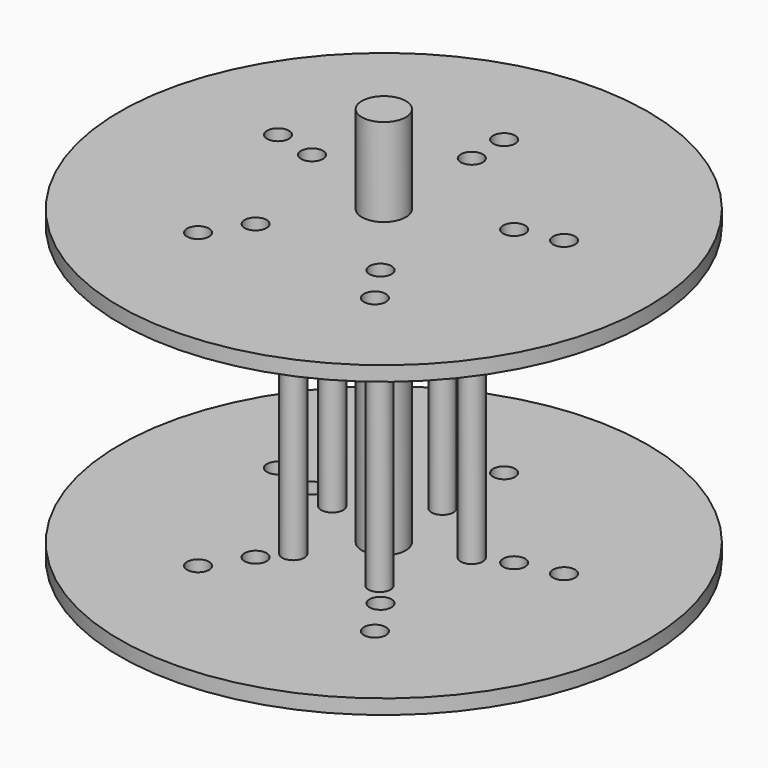
from build123d import *

# Parameters (mm, degrees)
F0_R      = 180
F1_DEPTH  = 10
F2_R      = 15
F2_R_2    = 7.5
F3_DEPTH  = 200
F5_R      = 180
F6_DEPTH  = 10
F7_R      = 15
F8_DEPTH  = 60
F10_R     = 15
F11_DEPTH = 60
F12_R     = 7.5
F13_DEPTH = 220


with BuildPart() as f1:
    # F0 (on Top) → F1 (new body)
    with BuildSketch(Plane.XY):
        Circle(F0_R)
    extrude(amount=F1_DEPTH)

    # F2 (on Top) → F3 (join)
    with BuildSketch(Plane.XY):
        Circle(F2_R)
        with Locations((0, 50)):
            Circle(F2_R_2)
        with Locations((-47.552826, 15.45085)):
            Circle(F2_R_2)
        with Locations((-29.389263, -40.45085)):
            Circle(F2_R_2)
        with Locations((29.389263, -40.45085)):
            Circle(F2_R_2)
        with Locations((47.552826, 15.45085)):
            Circle(F2_R_2)
    extrude(amount=F3_DEPTH)

    # F5 (on offset) → F6 (join)
    with BuildSketch(Plane.XY.offset(200)):
        Circle(F5_R)
    extrude(amount=F6_DEPTH)

    # F7 (on Top) → F8 (join)
    with BuildSketch(Plane.XY):
        Circle(F7_R)
    extrude(amount=-F8_DEPTH)

    # F10 (on offset) → F11 (join)
    with BuildSketch(Plane.XY.offset(210)):
        Circle(F10_R)
    extrude(amount=F11_DEPTH)

    # F12 (on Top) → F13 (cut)
    with BuildSketch(Plane.XY):
        with Locations((0, 75)):
            Circle(F12_R)
        with Locations((-68.905745, 24.937046)):
            Circle(F12_R)
        with Locations((-42.586093, -56.066516)):
            Circle(F12_R)
        with Locations((42.586093, -56.066516)):
            Circle(F12_R)
        with Locations((68.905745, 24.937046)):
            Circle(F12_R)
        with Locations((0, 102.548212)):
            Circle(F12_R)
        with Locations((-97.529145, 31.68914)):
            Circle(F12_R)
        with Locations((-60.276327, -82.963246)):
            Circle(F12_R)
        with Locations((60.276327, -82.963246)):
            Circle(F12_R)
        with Locations((97.529145, 31.68914)):
            Circle(F12_R)
    extrude(amount=F13_DEPTH, mode=Mode.SUBTRACT)


solid = f1.part
